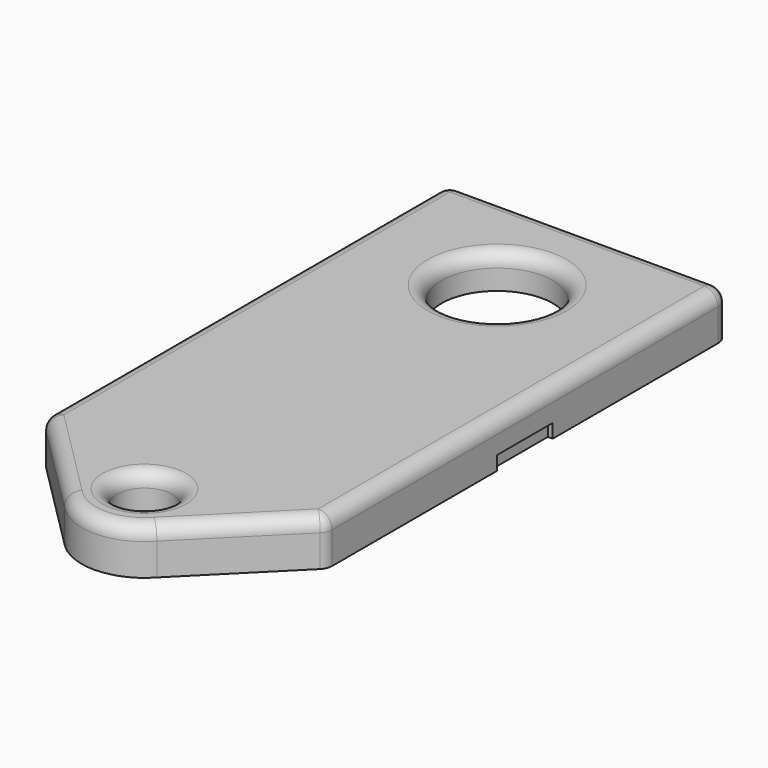
from build123d import *

# Parameters (mm, degrees)
PAD003_DEPTH    = 3.3
SKETCH016_R     = 4
POCKET005_DEPTH = 5
SKETCH007_W     = 11
SKETCH007_H     = 18
POCKET006_DEPTH = 2.7
SKETCH008_W     = 5.388972
SKETCH008_H     = 3.069046
POCKET007_DEPTH = 1
SKETCH018_R     = 2
POCKET008_DEPTH = 5
POCKET009_DEPTH = 0.85
SKETCH020_W     = 0.35
SKETCH020_H     = 0.6
POCKET010_DEPTH = 25
FILLET_R        = 1
SKETCH034_W     = 5
SKETCH034_H     = 1
POCKET020_DEPTH = 0.35
SKETCH035_W     = 5
SKETCH035_H     = 1
POCKET021_DEPTH = 0.35


with BuildPart() as part:
    # Sketch005 → Pad003 (new body)
    with BuildSketch(Plane.XY):
        with BuildLine():
            Line((-10.15, 18.375), (10.15, 18.375))
            Line((10.15, 18.375), (10.15, -17.75))
            Line((3.33, -24.57), (10.15, -17.75))
            ThreePointArc((-3.33, -24.57), (0, -26.037308), (3.33, -24.57))
            Line((-10.15, -17.75), (-3.33, -24.57))
            Line((-10.15, -17.75), (-10.15, 18.375))
        make_face()
    extrude(amount=PAD003_DEPTH)

    # Sketch016 → Pocket005 (cut)
    with BuildSketch(Plane.XY):
        with Locations((0, 10.2)):
            Circle(SKETCH016_R)
    extrude(amount=POCKET005_DEPTH, mode=Mode.SUBTRACT)

    # Sketch007 (on Face4 of Pocket005) → Pocket006 (cut)
    with BuildSketch(Plane(origin=(0, 0, 0), x_dir=(1, 0, 0), z_dir=(0, 0, -1))):
        with Locations((0, 5.277613)):
            Rectangle(SKETCH007_W, SKETCH007_H)
    extrude(amount=-POCKET006_DEPTH, mode=Mode.SUBTRACT)

    # Sketch008 → Pocket007 (cut)
    with BuildSketch(Plane.XY):
        with Locations((-2.024069, -8.897589)):
            Rectangle(SKETCH008_W, SKETCH008_H)
    extrude(amount=POCKET007_DEPTH, mode=Mode.SUBTRACT)

    # Sketch018 → Pocket008 (cut)
    with BuildSketch(Plane.XY):
        with Locations((0, -21.525)):
            Circle(SKETCH018_R)
    extrude(amount=POCKET008_DEPTH, mode=Mode.SUBTRACT)

    # Sketch019 → Pocket009 (cut)
    with BuildSketch(Plane.XY):
        with BuildLine():
            Line((-9.35, 17.285263), (-9.35, -17.814737))
            Line((-9.35, -17.814737), (-2.6, -24.564737))
            ThreePointArc((-2.6, -24.564737), (0, -25.525), (2.6, -24.564737))
            Line((2.6, -24.564737), (9.35, -17.814737))
            Line((9.35, -17.814737), (9.35, 17.285263))
            ThreePointArc((9.35, 17.285263), (9.155303, 17.755303), (8.685263, 17.95))
            Line((8.685263, 17.95), (-8.685263, 17.95))
            ThreePointArc((-8.685263, 17.95), (-9.155303, 17.755303), (-9.35, 17.285263))
        make_face()
    extrude(amount=POCKET009_DEPTH, mode=Mode.SUBTRACT)

    # Sketch020 (on Face16 of Pocket009) → Pocket010 (cut)
    with BuildSketch(Plane.YZ.offset(-9.35)):
        with Locations((-9.625, -1.8)):
            Rectangle(SKETCH020_W, SKETCH020_H)
        with Locations((9.625, -1.8)):
            Rectangle(SKETCH020_W, SKETCH020_H)
    extrude(amount=-POCKET010_DEPTH, mode=Mode.SUBTRACT)

    # Fillet
    fillet_edges = [part.edges().sort_by_distance(p)[0] for p in [
        (10.15, -17.75, 1.65),
        (10.15, 18.375, 1.65),
        (-6.74, -21.16, 3.3),
        (-10.15, 0.3125, 3.3),
        (0, -26.037308, 3.3),
        (0, 18.375, 3.3),
        (6.74, -21.16, 3.3),
        (10.15, 0.3125, 3.3),
        (-2, -21.525, 3.3),
        (-4, 10.2, 3.3),
        (-10.15, 18.375, 1.65),
        (-10.15, -17.75, 1.65),
    ]]
    fillet(fillet_edges, radius=FILLET_R)

    # Sketch034 (on Face10 of Fillet) → Pocket020 (cut)
    with BuildSketch(Plane(origin=(-10.15, 0, 0), x_dir=(0, -1, 0), z_dir=(-1, 0, 0))):
        with Locations((0, 0.5)):
            Rectangle(SKETCH034_W, SKETCH034_H)
    extrude(amount=-POCKET020_DEPTH, mode=Mode.SUBTRACT)

    # Sketch035 (on Face11 of Pocket020) → Pocket021 (cut)
    with BuildSketch(Plane.YZ.offset(10.15)):
        with Locations((0, 0.5)):
            Rectangle(SKETCH035_W, SKETCH035_H)
    extrude(amount=-POCKET021_DEPTH, mode=Mode.SUBTRACT)


solid = part.part
